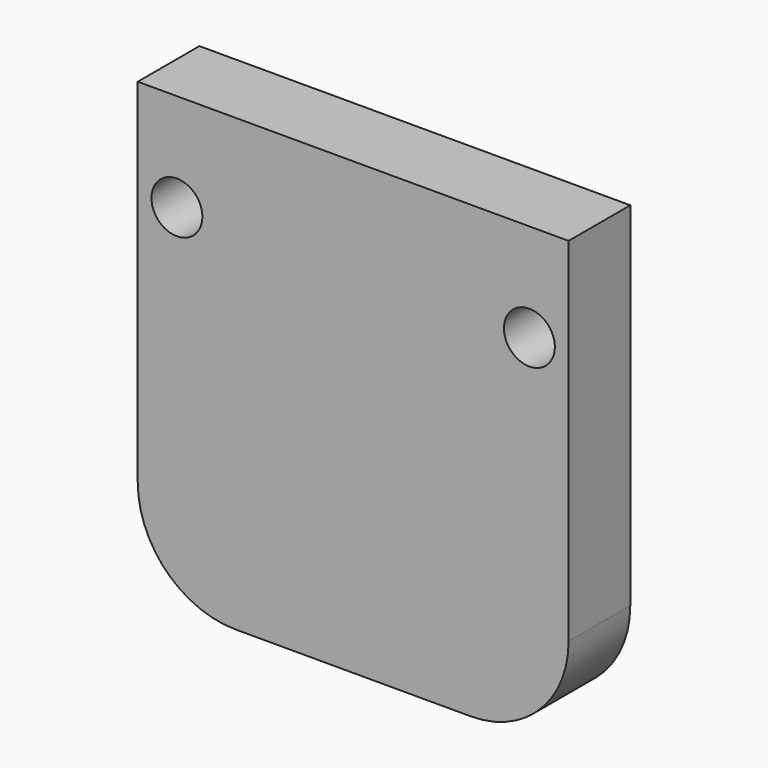
from build123d import *

# Parameters (mm, degrees)
F0_R     = 1.651
F1_DEPTH = 5


with BuildPart() as f1:
    # F0 (on Front) → F1 (new body)
    with BuildSketch(Plane.XZ):
        with BuildLine():
            Line((0, 0), (-27.94, 0))
            Line((-27.94, 0), (-27.94, -22.86))
            ThreePointArc((-27.94, -22.86), (-26.080128, -27.350128), (-21.59, -29.21))
            Line((-21.59, -29.21), (-6.35, -29.21))
            ThreePointArc((-6.35, -29.21), (-1.859872, -27.350128), (0, -22.86))
            Line((0, -22.86), (0, 0))
        make_face()
        with Locations((-25.4, -6.35)):
            Circle(F0_R, mode=Mode.SUBTRACT)
        with Locations((-2.54, -6.35)):
            Circle(F0_R, mode=Mode.SUBTRACT)
    extrude(amount=F1_DEPTH)


solid = f1.part
